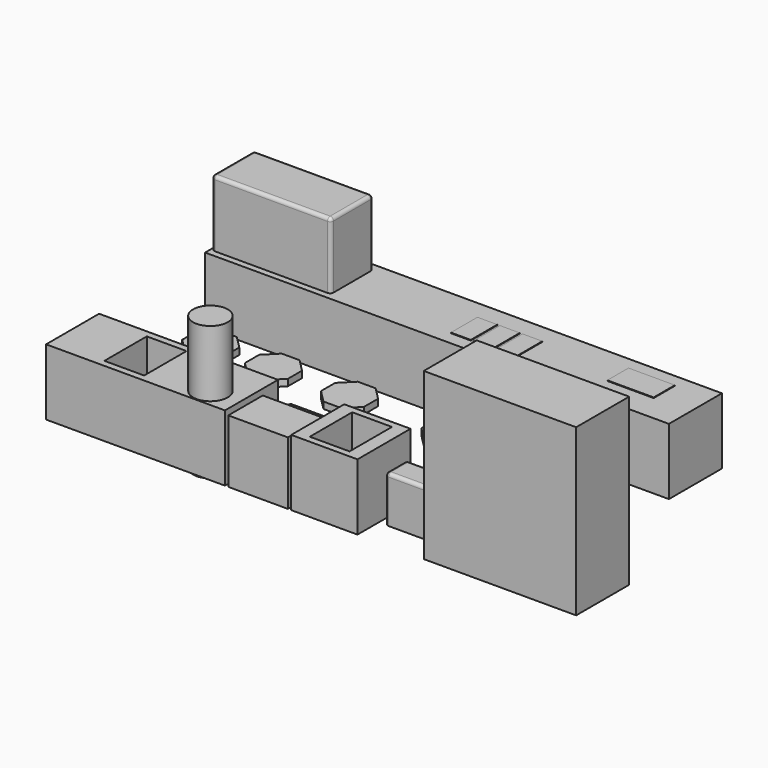
from build123d import *

# Parameters (mm, degrees)
F0_R          = 262.0619836103
F1_DEPTH      = 2000
F1_DEPTH_BACK = 25
F0_W          = 2700
F0_H          = 1000
F0_W_2        = 600
F0_H_2        = 800
F2_DEPTH      = 1000
F0_W_3        = 7000
F0_W_4        = 1000
F3_DEPTH      = 500
F4_R          = 50
F5_DEPTH      = 700
F0_W_5        = 900
F0_H_3        = 650
F6_DEPTH      = 950
F7_DEPTH      = 100
F8_R          = 50
F9_R          = 50
F0_W_6        = 2300
F10_DEPTH     = 2500
F12_START     = 1
F11_W         = 300
F11_H         = 500
F12_DEPTH     = 9
F13_START     = 1
F11_W_2       = 700
F11_H_2       = 400
F13_DEPTH     = 9


with BuildPart() as f1:
    # F0 (on Top) → F1 (new body, two sides)
    with BuildSketch(Plane.XY) as f1_sk:
        with Locations((-1737.4181978075, -1768.1895282261)):
            Circle(F0_R)
    extrude(amount=F1_DEPTH)
    extrude(f1_sk.sketch, amount=-F1_DEPTH_BACK)


with BuildPart() as f1b:
    # F0 (on Top) → F1, piece 2 (new body, two sides)
    with BuildSketch(Plane.XY) as f1_2_sk:
        with BuildLine():
            Line((-2224.2891788483, 1849.5825888716), (-3924.2891788483, 1849.5825888716))
            ThreePointArc((-3924.2891788483, 1849.5825888716), (-3959.6445179076, 1834.9379279309), (-3974.2891788483, 1799.5825888716))
            Line((-3974.2891788483, 1799.5825888716), (-3974.2891788483, 1099.5825888716))
            ThreePointArc((-3974.2891788483, 1099.5825888716), (-3959.6445179076, 1064.2272498123), (-3924.2891788483, 1049.5825888716))
            Line((-3924.2891788483, 1049.5825888716), (-2224.2891788483, 1049.5825888716))
            ThreePointArc((-2224.2891788483, 1049.5825888716), (-2188.9338397889, 1064.2272498123), (-2174.2891788483, 1099.5825888716))
            Line((-2174.2891788483, 1099.5825888716), (-2174.2891788483, 1799.5825888716))
            ThreePointArc((-2174.2891788483, 1799.5825888716), (-2188.9338397889, 1834.9379279309), (-2224.2891788483, 1849.5825888716))
        make_face()
    extrude(amount=F1_DEPTH)
    extrude(f1_2_sk.sketch, amount=-F1_DEPTH_BACK)

    # F4
    f4_edges = [f1b.edges().sort_by_distance(p)[0] for p in [
        (-3074.289179, 1849.582589, 2000),
        (-3974.289179, 1449.582589, 2000),
        (-2174.289179, 1449.582589, 2000),
        (-3074.289179, 1049.582589, 2000),
    ]]
    fillet(f4_edges, radius=F4_R)


with BuildPart() as f2:
    # F0 (on Top) → F2 (new body)
    with BuildSketch(Plane.XY):
        with Locations((-2644.2891788483, -1547.048664093)):
            Rectangle(F0_W, F0_H)
        with Locations((-2894.2891788483, -1547.048664093)):
            Rectangle(F0_W_2, F0_H_2, mode=Mode.SUBTRACT)
        with Locations((-1737.4181978075, -1768.1895282261)):
            Circle(F0_R, mode=Mode.SUBTRACT)
    extrude(amount=F2_DEPTH)


with BuildPart() as f2b:
    # F0 (on Top) → F2, piece 2 (new body)
    with BuildSketch(Plane.XY):
        with Locations((-494.2891788483, 1452.951335907)):
            Rectangle(F0_W_3, F0_H)
        with BuildLine():
            ThreePointArc((-3974.2891788483, 1799.5825888716), (-3959.6445179076, 1834.9379279309), (-3924.2891788483, 1849.5825888716))
            Line((-3924.2891788483, 1849.5825888716), (-2224.2891788483, 1849.5825888716))
            ThreePointArc((-2224.2891788483, 1849.5825888716), (-2188.9338397889, 1834.9379279309), (-2174.2891788483, 1799.5825888716))
            Line((-2174.2891788483, 1799.5825888716), (-2174.2891788483, 1099.5825888716))
            ThreePointArc((-2174.2891788483, 1099.5825888716), (-2188.9338397889, 1064.2272498123), (-2224.2891788483, 1049.5825888716))
            Line((-2224.2891788483, 1049.5825888716), (-3924.2891788483, 1049.5825888716))
            ThreePointArc((-3924.2891788483, 1049.5825888716), (-3959.6445179076, 1064.2272498123), (-3974.2891788483, 1099.5825888716))
            Line((-3974.2891788483, 1099.5825888716), (-3974.2891788483, 1799.5825888716))
        make_face(mode=Mode.SUBTRACT)
    extrude(amount=F2_DEPTH)


with BuildPart() as f2c:
    # F0 (on Top) → F2, piece 3 (new body)
    with BuildSketch(Plane.XY):
        with Locations((205.7108211517, -1547.048664093)):
            Rectangle(F0_W_4, F0_H)
        with Locations((205.7108211517, -1547.048664093)):
            Rectangle(F0_W_2, F0_H_2, mode=Mode.SUBTRACT)
    extrude(amount=F2_DEPTH)


with BuildPart() as f3:
    # F0 (on Top) → F3 (new body)
    with BuildSketch(Plane.XY):
        with Locations((-2894.2891788483, -1547.048664093)):
            Rectangle(F0_W_2, F0_H_2)
    extrude(amount=F3_DEPTH)


with BuildPart() as f3b:
    # F0 (on Top) → F3, piece 2 (new body)
    with BuildSketch(Plane.XY):
        with Locations((205.7108211517, -1547.048664093)):
            Rectangle(F0_W_2, F0_H_2)
    extrude(amount=F3_DEPTH)


with BuildPart() as f5:
    # F0 (on Top) → F5 (new body)
    with BuildSketch(Plane.XY):
        with BuildLine():
            Line((-444.2891788483, -947.048664093), (-1144.2891788483, -947.048664093))
            ThreePointArc((-1144.2891788483, -947.048664093), (-1179.6445179076, -961.6933250337), (-1194.2891788483, -997.048664093))
            Line((-1194.2891788483, -997.048664093), (-1194.2891788483, -1297.048664093))
            ThreePointArc((-1194.2891788483, -1297.048664093), (-1179.6445179076, -1332.4040031523), (-1144.2891788483, -1347.048664093))
            Line((-1144.2891788483, -1347.048664093), (-444.2891788483, -1347.048664093))
            ThreePointArc((-444.2891788483, -1347.048664093), (-408.9338397889, -1332.4040031523), (-394.2891788483, -1297.048664093))
            Line((-394.2891788483, -1297.048664093), (-394.2891788483, -997.048664093))
            ThreePointArc((-394.2891788483, -997.048664093), (-408.9338397889, -961.6933250337), (-444.2891788483, -947.048664093))
        make_face()
    extrude(amount=F5_DEPTH)

    # F9
    f9_edges = [f5.edges().sort_by_distance(p)[0] for p in [
        (-794.289179, -947.048664, 700),
        (-1179.644518, -961.693325, 700),
        (-1194.289179, -1147.048664, 700),
        (-1179.644518, -1332.404003, 700),
        (-794.289179, -1347.048664, 700),
        (-408.93384, -1332.404003, 700),
        (-394.289179, -1147.048664, 700),
        (-408.93384, -961.693325, 700),
    ]]
    fillet(f9_edges, radius=F9_R)


with BuildPart() as f5b:
    # F0 (on Top) → F5, piece 2 (new body)
    with BuildSketch(Plane.XY):
        with BuildLine():
            Line((1555.7108211517, -1247.048664093), (855.7108211517, -1247.048664093))
            ThreePointArc((855.7108211517, -1247.048664093), (820.3554820924, -1261.6933250337), (805.7108211517, -1297.048664093))
            Line((805.7108211517, -1297.048664093), (805.7108211517, -1597.048664093))
            ThreePointArc((805.7108211517, -1597.048664093), (820.3554820924, -1632.4040031523), (855.7108211517, -1647.048664093))
            Line((855.7108211517, -1647.048664093), (1555.7108211517, -1647.048664093))
            ThreePointArc((1555.7108211517, -1647.048664093), (1591.0661602111, -1632.4040031523), (1605.7108211517, -1597.048664093))
            Line((1605.7108211517, -1597.048664093), (1605.7108211517, -1297.048664093))
            ThreePointArc((1605.7108211517, -1297.048664093), (1591.0661602111, -1261.6933250337), (1555.7108211517, -1247.048664093))
        make_face()
    extrude(amount=F5_DEPTH)

    # F8
    f8_edges = [f5b.edges().sort_by_distance(p)[0] for p in [
        (1605.710821, -1447.048664, 700),
        (1591.06616, -1261.693325, 700),
        (1205.710821, -1247.048664, 700),
        (820.355482, -1261.693325, 700),
        (805.710821, -1447.048664, 700),
        (820.355482, -1632.404003, 700),
        (1205.710821, -1647.048664, 700),
        (1591.06616, -1632.404003, 700),
    ]]
    fillet(f8_edges, radius=F8_R)


with BuildPart() as f6:
    # F0 (on Top) → F6 (new body)
    with BuildSketch(Plane.XY):
        with Locations((-794.2891788483, -1722.048664093)):
            Rectangle(F0_W_5, F0_H_3)
    extrude(amount=F6_DEPTH)


with BuildPart() as f7:
    # F0 (on Top) → F7 (new body)
    with BuildSketch(Plane.XY):
        Polygon((702.4144475913, -602.6296615601), (1237.6146966958, -602.6296615601), (1403.0006690628, -93.6239771264), (970.0145721436, 220.9588363205), (537.0284752243, -93.6239771264), align=None)
    extrude(amount=F7_DEPTH)


with BuildPart() as f7b:
    # F0 (on Top) → F7, piece 2 (new body)
    with BuildSketch(Plane.XY):
        Polygon((2216.0693913759, 205.4749936856), (2405.7108211517, 395.1164234614), (2405.7108211517, 663.3099054383), (2216.0693913759, 852.9513352141), (1947.8759093991, 852.9513352141), (1758.2344796232, 663.3099054383), (1758.2344796232, 395.1164234614), (1947.8759093991, 205.4749936856), align=None)
    extrude(amount=F7_DEPTH)


with BuildPart() as f7c:
    # F0 (on Top) → F7, piece 3 (new body)
    with BuildSketch(Plane.XY):
        Polygon((173.9043031286, 205.4749943785), (363.5457329044, 395.1164241543), (363.5457329044, 663.3099061311), (173.9043031286, 852.951335907), (-94.2891788483, 852.951335907), (-283.9306086241, 663.3099061311), (-283.9306086241, 395.1164241543), (-94.2891788483, 205.4749943785), align=None)
    extrude(amount=F7_DEPTH)


with BuildPart() as f7d:
    # F0 (on Top) → F7, piece 4 (new body)
    with BuildSketch(Plane.XY):
        Polygon((-2488.9779255671, 205.4749943785), (-2299.3364957912, 395.1164241543), (-2299.3364957912, 663.3099061311), (-2488.9779255671, 852.951335907), (-2757.1714075439, 852.951335907), (-2946.8128373198, 663.3099061311), (-2946.8128373198, 395.1164241543), (-2757.1714075439, 205.4749943785), align=None)
    extrude(amount=F7_DEPTH)


with BuildPart() as f7e:
    # F0 (on Top) → F7, piece 5 (new body)
    with BuildSketch(Plane.XY):
        Polygon((-1341.5015840386, 205.4749936856), (-1151.8601542627, 395.1164234614), (-1151.8601542627, 663.3099054383), (-1341.5015840386, 852.9513352141), (-1609.6950660154, 852.9513352141), (-1799.3364957912, 663.3099054383), (-1799.3364957912, 395.1164234614), (-1609.6950660154, 205.4749936856), align=None)
    extrude(amount=F7_DEPTH)


with BuildPart() as f7f:
    # F0 (on Top) → F7, piece 6 (new body)
    with BuildSketch(Plane.XY):
        Polygon((-3436.4542670956, 205.4749943785), (-3246.8128373198, 395.1164241543), (-3246.8128373198, 663.3099061311), (-3436.4542670956, 852.951335907), (-3704.6477490724, 852.951335907), (-3894.2891788483, 663.3099061311), (-3894.2891788483, 395.1164241543), (-3704.6477490724, 205.4749943785), align=None)
    extrude(amount=F7_DEPTH)


with BuildPart() as f7g:
    # F0 (on Top) → F7, piece 7 (new body)
    with BuildSketch(Plane.XY):
        Polygon((2216.0693913759, 2052.951335907), (2405.7108211517, 2242.5927656828), (2405.7108211517, 2510.7862476596), (2216.0693913759, 2700.4276774355), (1947.8759093991, 2700.4276774355), (1758.2344796232, 2510.7862476597), (1758.2344796232, 2242.5927656828), (1947.8759093991, 2052.951335907), align=None)
    extrude(amount=F7_DEPTH)


with BuildPart() as f7h:
    # F0 (on Top) → F7, piece 8 (new body)
    with BuildSketch(Plane.XY):
        Polygon((-1638.9779255671, -960.9034061432), (-1449.3364957912, -771.2619763673), (-1449.3364957912, -503.0684943905), (-1638.9779255671, -313.4270646147), (-1907.1714075439, -313.4270646147), (-2096.8128373198, -503.0684943905), (-2096.8128373198, -771.2619763673), (-1907.1714075439, -960.9034061432), align=None)
    extrude(amount=F7_DEPTH)


with BuildPart() as f7i:
    # F0 (on Top) → F7, piece 9 (new body)
    with BuildSketch(Plane.XY):
        Polygon((-2586.4542670956, -947.048664093), (-2396.8128373198, -757.4072343172), (-2396.8128373198, -489.2137523404), (-2586.4542670956, -299.5723225645), (-2854.6477490724, -299.5723225645), (-3044.2891788483, -489.2137523404), (-3044.2891788483, -757.4072343172), (-2854.6477490724, -947.048664093), align=None)
    extrude(amount=F7_DEPTH)


with BuildPart() as f10:
    # F0 (on Top) → F10 (new body)
    with BuildSketch(Plane.XY):
        with Locations((2855.7108211517, -1547.048664093)):
            Rectangle(F0_W_6, F0_H)
    extrude(amount=F10_DEPTH)


with BuildPart() as f12:
    # F11 (on face) → F12 (new body)
    with BuildSketch(Plane.XY.offset(1000).offset(F12_START)):
        with Locations((-294.2891788483, 1402.951335907)):
            Rectangle(F11_W, F11_H)
    extrude(amount=F12_DEPTH)


with BuildPart() as f12b:
    # F11 (on face) → F12, piece 2 (new body)
    with BuildSketch(Plane.XY.offset(1000).offset(F12_START)):
        with Locations((45.7108211517, 1402.951335907)):
            Rectangle(F11_W, F11_H)
    extrude(amount=F12_DEPTH)


with BuildPart() as f12c:
    # F11 (on face) → F12, piece 3 (new body)
    with BuildSketch(Plane.XY.offset(1000).offset(F12_START)):
        with Locations((385.7108211517, 1402.951335907)):
            Rectangle(F11_W, F11_H)
    extrude(amount=F12_DEPTH)


with BuildPart() as f13:
    # F11 (on face) → F13 (new body)
    with BuildSketch(Plane.XY.offset(1000).offset(F13_START)):
        with Locations((2105.7108211517, 1552.951335907)):
            Rectangle(F11_W_2, F11_H_2)
    extrude(amount=F13_DEPTH)


solid = Compound([f1.part, f1b.part, f2.part, f2b.part, f2c.part, f3.part, f3b.part, f5.part, f5b.part, f6.part, f7.part, f7b.part, f7c.part, f7d.part, f7e.part, f7f.part, f7g.part, f7h.part, f7i.part, f10.part, f12.part, f12b.part, f12c.part, f13.part])
